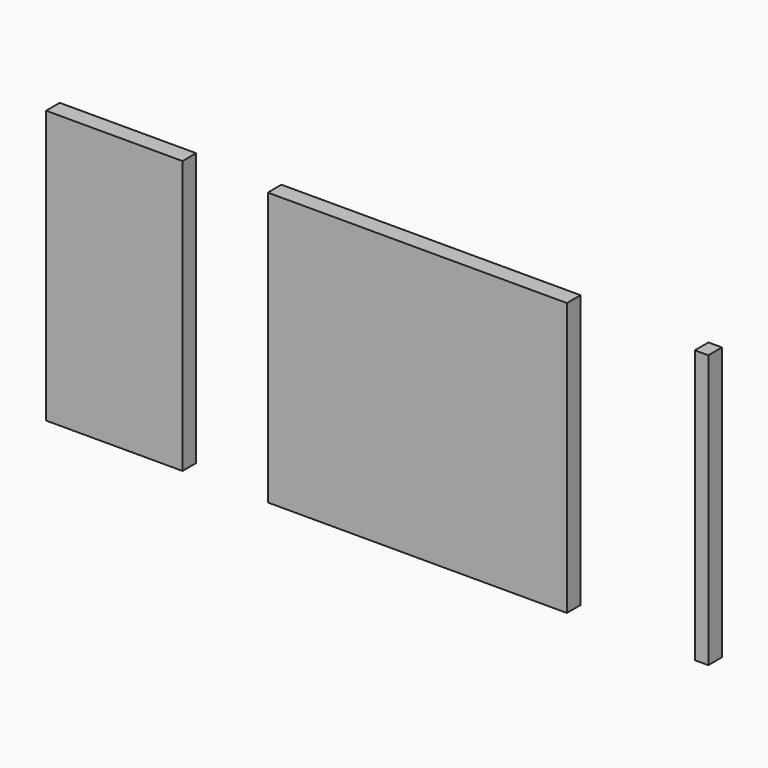
from build123d import *

# Parameters (mm, degrees)
F0_W     = 120.65
F0_H     = 152.4
F0_W_2   = 1219.2
F0_W_3   = 2673.35
F1_DEPTH = 2438.4


with BuildPart() as f1:
    # F0 (on Top) → F1 (new body)
    with BuildSketch(Plane.XY):
        with Locations((5857.875, -76.2)):
            Rectangle(F0_W, F0_H)
        with Locations((609.6, -76.2)):
            Rectangle(F0_W_2, F0_H)
        with Locations((3317.875, -76.2)):
            Rectangle(F0_W_3, F0_H)
    extrude(amount=F1_DEPTH)


solid = f1.part
